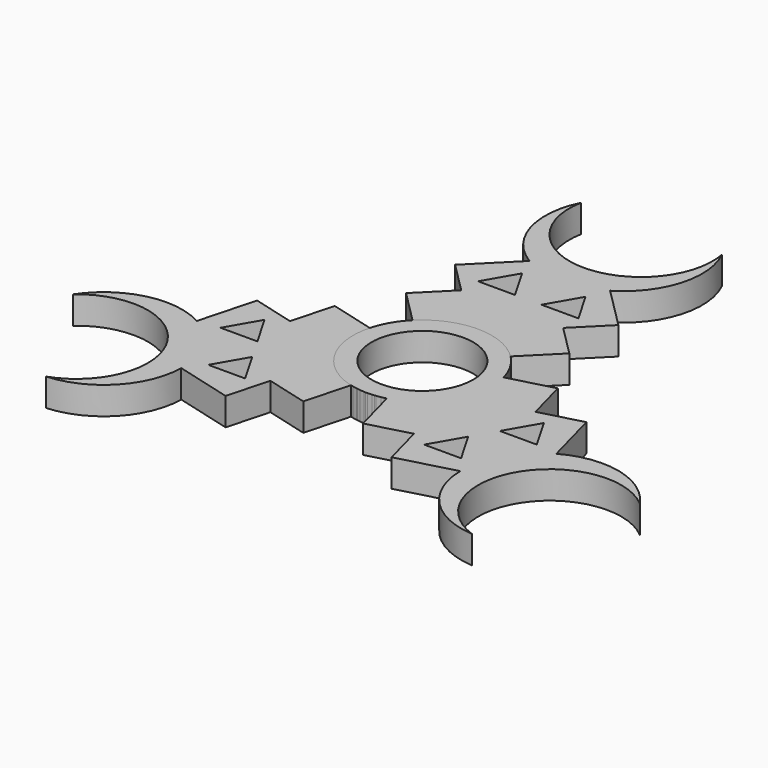
from build123d import *

# Parameters (mm, degrees)
F0_R     = 11
F1_DEPTH = 6
F2_COUNT = 3


with BuildPart() as f1:
    # F0 (on Top) → F1 (new body)
    with BuildSketch(Plane.XY):
        with BuildLine():
            ThreePointArc((-10.606602, 10.606602), (-5.740251, -13.858193), (15, 0))
            ThreePointArc((15, 0), (13.858193, 5.740251), (10.606602, 10.606602))
            ThreePointArc((10.606602, 10.606602), (6.484279, 13.526054), (1.626588, 14.911546))
            ThreePointArc((1.626588, 14.911546), (0, 15), (-1.626588, 14.911546))
            ThreePointArc((-1.626588, 14.911546), (-6.484279, 13.526054), (-10.606602, 10.606602))
        make_face()
        Circle(F0_R, mode=Mode.SUBTRACT)
        with BuildLine():
            ThreePointArc((1.626588, 14.911546), (6.484279, 13.526054), (10.606602, 10.606602))
            Line((10.606602, 10.606602), (17.67767, 17.67767))
            Line((17.67767, 17.67767), (11.03519, 24.320149))
            Line((11.03519, 24.320149), (1.626588, 14.911546))
        make_face()
        with BuildLine():
            Line((-17.67767, 17.67767), (-10.606602, 10.606602))
            ThreePointArc((-10.606602, 10.606602), (-6.484279, 13.526054), (-1.626588, 14.911546))
            Line((-1.626588, 14.911546), (-11.03519, 24.320149))
            Line((-11.03519, 24.320149), (-17.67767, 17.67767))
        make_face()
        with BuildLine():
            ThreePointArc((-1.626588, 14.911546), (0, 15), (1.626588, 14.911546))
            Line((1.626588, 14.911546), (11.03519, 24.320149))
            Line((11.03519, 24.320149), (17.67767, 30.962628))
            Line((17.67767, 30.962628), (8.727901, 39.912397))
            ThreePointArc((8.727901, 39.912397), (0, 37.500877), (-8.727901, 39.912397))
            Line((-8.727901, 39.912397), (-17.67767, 30.962628))
            Line((-17.67767, 30.962628), (-11.03519, 24.320149))
            Line((-11.03519, 24.320149), (-1.626588, 14.911546))
        make_face()
        Polygon((-10.86972, 28.653227), (-6.86972, 35.58143), (-2.86972, 28.653227), align=None, mode=Mode.SUBTRACT)
        Polygon((6.86972, 35.58143), (10.86972, 28.653227), (2.86972, 28.653227), align=None, mode=Mode.SUBTRACT)
        with BuildLine():
            ThreePointArc((-8.727901, 39.912397), (0, 37.500877), (8.727901, 39.912397))
            ThreePointArc((8.727901, 39.912397), (16.309216, 49.704059), (15.23632, 62.041072))
            ThreePointArc((15.23632, 62.041072), (0, 43.694225), (-15.23632, 62.041072))
            ThreePointArc((-15.23632, 62.041072), (-16.309216, 49.704059), (-8.727901, 39.912397))
        make_face()
    extrude(amount=F1_DEPTH)


with BuildPart() as f2_1:
    # F2: instance of F1
    add(f1.part.rotate(Axis((0, 0, 6), (0, 0, 1)), 1 * 360 / F2_COUNT))


with BuildPart() as f2_2:
    # F2: instance of F1
    add(f1.part.rotate(Axis((0, 0, 6), (0, 0, 1)), 2 * 360 / F2_COUNT))


solid = Compound([f1.part, f2_1.part, f2_2.part])
